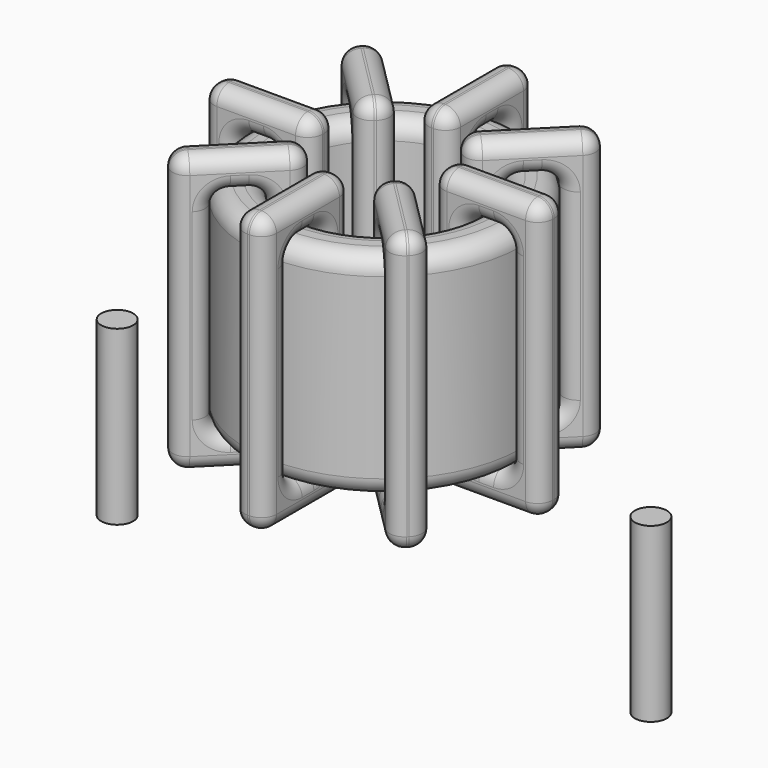
from build123d import *

# Parameters (mm, degrees)
SKETCH001_R       = 0.45
PAD001_DEPTH      = 0.45
PAD001_DEPTH_BACK = 4.4
SKETCH_R          = 3.8625
SKETCH_R_2        = 2.6035
PAD_DEPTH         = 6
FILLET_R          = 0.5
SKETCH003_W       = 3.059
SKETCH003_H       = 7.8
SKETCH003_W_2     = 1.259
SKETCH003_H_2     = 6
PAD002_DEPTH      = 0.45
FILLET001_R       = 0.423
SKETCH004_W       = 3.059
SKETCH004_H       = 7.8
SKETCH004_W_2     = 1.259
SKETCH004_H_2     = 6
PAD003_DEPTH      = 0.45
FILLET002_R       = 0.423
SKETCH005_W       = 3.059
SKETCH005_H       = 7.8
SKETCH005_W_2     = 1.259
SKETCH005_H_2     = 6
PAD004_DEPTH      = 0.45
FILLET003_R       = 0.423
SKETCH006_W       = 3.059
SKETCH006_H       = 7.8
SKETCH006_W_2     = 1.259
SKETCH006_H_2     = 6
PAD005_DEPTH      = 0.45
FILLET004_R       = 0.423


with BuildPart() as pad001:
    # Sketch001 → Pad001 (new body, two sides)
    with BuildSketch(Plane.XY.offset(0.95)) as pad001_sk:
        Circle(SKETCH001_R)
        with Locations((15, 0)):
            Circle(SKETCH001_R)
    extrude(amount=PAD001_DEPTH)
    extrude(pad001_sk.sketch, amount=-PAD001_DEPTH_BACK)


with BuildPart() as fillet_body:
    # Sketch → Pad (new body)
    with BuildSketch(Plane.XY.offset(1.4)):
        with Locations((7.5, 0)):
            Circle(SKETCH_R)
        with Locations((7.5, 0)):
            Circle(SKETCH_R_2, mode=Mode.SUBTRACT)
    extrude(amount=PAD_DEPTH)

    # Fillet
    fillet_edges = [fillet_body.edges().sort_by_distance(p)[0] for p in [
        (4.8965, 0, 7.4),
        (3.6375, 0, 7.4),
        (3.6375, 0, 1.4),
    ]]
    fillet(fillet_edges, radius=FILLET_R)


with BuildPart() as fillet001:
    # Sketch003 → Pad002 (new body, symmetric)
    with BuildSketch(Plane(origin=(7.5, 0, 0), x_dir=(1, 0, 0), z_dir=(0, -1, 0))):
        with Locations((-3.233, 4.4)):
            Rectangle(SKETCH003_W, SKETCH003_H)
        with Locations((-3.233, 4.4)):
            Rectangle(SKETCH003_W_2, SKETCH003_H_2, mode=Mode.SUBTRACT)
        with Locations((3.233, 4.4)):
            Rectangle(SKETCH003_W, SKETCH003_H)
        with Locations((3.233, 4.4)):
            Rectangle(SKETCH003_W_2, SKETCH003_H_2, mode=Mode.SUBTRACT)
    extrude(amount=PAD002_DEPTH, both=True)

    # Fillet001
    fillet001_edges = [fillet001.edges().sort_by_distance(p)[0] for p in [
        (4.8965, 0, 7.4),
        (4.8965, 0, 1.4),
        (4.8965, 0.45, 4.4),
        (4.8965, -0.45, 4.4),
        (2.7375, 0, 8.3),
        (5.7965, 0, 8.3),
        (4.267, 0.45, 8.3),
        (4.267, -0.45, 8.3),
        (5.7965, 0, 0.5),
        (5.7965, 0.45, 4.4),
        (5.7965, -0.45, 4.4),
        (10.1035, 0, 7.4),
        (11.3625, 0, 7.4),
        (10.733, 0.45, 7.4),
        (10.733, -0.45, 7.4),
        (11.3625, 0, 1.4),
        (11.3625, 0.45, 4.4),
        (11.3625, -0.45, 4.4),
        (9.2035, 0, 8.3),
        (12.2625, 0, 8.3),
        (10.733, 0.45, 8.3),
        (10.733, -0.45, 8.3),
        (12.2625, 0, 0.5),
        (12.2625, 0.45, 4.4),
        (12.2625, -0.45, 4.4),
        (3.6375, 0, 7.4),
        (4.267, 0.45, 7.4),
        (4.267, -0.45, 7.4),
        (10.1035, 0, 1.4),
        (10.1035, 0.45, 4.4),
        (10.1035, -0.45, 4.4),
        (10.733, 0.45, 1.4),
        (10.733, -0.45, 1.4),
        (9.2035, 0, 0.5),
        (10.733, 0.45, 0.5),
        (10.733, -0.45, 0.5),
        (9.2035, 0.45, 4.4),
        (9.2035, -0.45, 4.4),
        (2.7375, 0, 0.5),
        (4.267, 0.45, 0.5),
        (4.267, -0.45, 0.5),
        (2.7375, 0.45, 4.4),
        (2.7375, -0.45, 4.4),
        (3.6375, 0, 1.4),
        (3.6375, 0.45, 4.4),
        (3.6375, -0.45, 4.4),
        (4.267, 0.45, 1.4),
        (4.267, -0.45, 1.4),
    ]]
    fillet(fillet001_edges, radius=FILLET001_R)


with BuildPart() as fillet002:
    # Sketch004 → Pad003 (new body, symmetric)
    with BuildSketch(Plane(origin=(7.5, 0, 0), x_dir=(0.707107, 0.707107, 0), z_dir=(0.707107, -0.707107, 0))):
        with Locations((-3.233, 4.4)):
            Rectangle(SKETCH004_W, SKETCH004_H)
        with Locations((-3.233, 4.4)):
            Rectangle(SKETCH004_W_2, SKETCH004_H_2, mode=Mode.SUBTRACT)
        with Locations((3.233, 4.4)):
            Rectangle(SKETCH004_W, SKETCH004_H)
        with Locations((3.233, 4.4)):
            Rectangle(SKETCH004_W_2, SKETCH004_H_2, mode=Mode.SUBTRACT)
    extrude(amount=PAD003_DEPTH, both=True)

    # Fillet002
    fillet002_edges = [fillet002.edges().sort_by_distance(p)[0] for p in [
        (5.659047, -1.840953, 7.4),
        (5.659047, -1.840953, 1.4),
        (5.340849, -1.522754, 4.4),
        (5.977246, -2.159151, 4.4),
        (4.132404, -3.367596, 8.3),
        (6.295444, -1.204556, 8.3),
        (4.895726, -1.967878, 8.3),
        (5.532122, -2.604274, 8.3),
        (6.295444, -1.204556, 0.5),
        (5.977246, -0.886358, 4.4),
        (6.613642, -1.522754, 4.4),
        (9.340953, 1.840953, 7.4),
        (10.2312, 2.7312, 7.4),
        (9.467878, 2.604274, 7.4),
        (10.104274, 1.967878, 7.4),
        (10.2312, 2.7312, 1.4),
        (9.913002, 3.049398, 4.4),
        (10.549398, 2.413002, 4.4),
        (8.704556, 1.204556, 8.3),
        (10.867596, 3.367596, 8.3),
        (9.467878, 2.604274, 8.3),
        (10.104274, 1.967878, 8.3),
        (10.867596, 3.367596, 0.5),
        (10.549398, 3.685794, 4.4),
        (11.185794, 3.049398, 4.4),
        (4.7688, -2.7312, 7.4),
        (4.895726, -1.967878, 7.4),
        (5.532122, -2.604274, 7.4),
        (9.340953, 1.840953, 1.4),
        (9.022754, 2.159151, 4.4),
        (9.659151, 1.522754, 4.4),
        (9.467878, 2.604274, 1.4),
        (10.104274, 1.967878, 1.4),
        (8.704556, 1.204556, 0.5),
        (9.467878, 2.604274, 0.5),
        (10.104274, 1.967878, 0.5),
        (8.386358, 1.522754, 4.4),
        (9.022754, 0.886358, 4.4),
        (4.132404, -3.367596, 0.5),
        (4.895726, -1.967878, 0.5),
        (5.532122, -2.604274, 0.5),
        (3.814206, -3.049398, 4.4),
        (4.450602, -3.685794, 4.4),
        (4.7688, -2.7312, 1.4),
        (4.450602, -2.413002, 4.4),
        (5.086998, -3.049398, 4.4),
        (4.895726, -1.967878, 1.4),
        (5.532122, -2.604274, 1.4),
    ]]
    fillet(fillet002_edges, radius=FILLET002_R)


with BuildPart() as fillet003:
    # Sketch005 → Pad004 (new body, symmetric)
    with BuildSketch(Plane(origin=(7.5, 0, 0), x_dir=(0.707107, -0.707107, 0), z_dir=(-0.707107, -0.707107, 0))):
        with Locations((-3.233, 4.4)):
            Rectangle(SKETCH005_W, SKETCH005_H)
        with Locations((-3.233, 4.4)):
            Rectangle(SKETCH005_W_2, SKETCH005_H_2, mode=Mode.SUBTRACT)
        with Locations((3.233, 4.4)):
            Rectangle(SKETCH005_W, SKETCH005_H)
        with Locations((3.233, 4.4)):
            Rectangle(SKETCH005_W_2, SKETCH005_H_2, mode=Mode.SUBTRACT)
    extrude(amount=PAD004_DEPTH, both=True)

    # Fillet003
    fillet003_edges = [fillet003.edges().sort_by_distance(p)[0] for p in [
        (4.7688, 2.7312, 7.4),
        (5.659047, 1.840953, 1.4),
        (5.532122, 2.604274, 1.4),
        (4.895726, 1.967878, 1.4),
        (4.132404, 3.367596, 8.3),
        (6.295444, 1.204556, 8.3),
        (5.532122, 2.604274, 8.3),
        (4.895726, 1.967878, 8.3),
        (6.295444, 1.204556, 0.5),
        (6.613642, 1.522754, 4.4),
        (5.977246, 0.886358, 4.4),
        (9.340953, -1.840953, 1.4),
        (9.340953, -1.840953, 7.4),
        (9.659151, -1.522754, 4.4),
        (9.022754, -2.159151, 4.4),
        (10.2312, -2.7312, 1.4),
        (10.104274, -1.967878, 1.4),
        (9.467878, -2.604274, 1.4),
        (8.704556, -1.204556, 8.3),
        (10.867596, -3.367596, 8.3),
        (10.104274, -1.967878, 8.3),
        (9.467878, -2.604274, 8.3),
        (10.867596, -3.367596, 0.5),
        (11.185794, -3.049398, 4.4),
        (10.549398, -3.685794, 4.4),
        (4.7688, 2.7312, 1.4),
        (5.086998, 3.049398, 4.4),
        (4.450602, 2.413002, 4.4),
        (10.2312, -2.7312, 7.4),
        (10.104274, -1.967878, 7.4),
        (9.467878, -2.604274, 7.4),
        (10.549398, -2.413002, 4.4),
        (9.913002, -3.049398, 4.4),
        (8.704556, -1.204556, 0.5),
        (10.104274, -1.967878, 0.5),
        (9.467878, -2.604274, 0.5),
        (9.022754, -0.886358, 4.4),
        (8.386358, -1.522754, 4.4),
        (4.132404, 3.367596, 0.5),
        (5.532122, 2.604274, 0.5),
        (4.895726, 1.967878, 0.5),
        (4.450602, 3.685794, 4.4),
        (3.814206, 3.049398, 4.4),
        (5.659047, 1.840953, 7.4),
        (5.532122, 2.604274, 7.4),
        (4.895726, 1.967878, 7.4),
        (5.977246, 2.159151, 4.4),
        (5.340849, 1.522754, 4.4),
    ]]
    fillet(fillet003_edges, radius=FILLET003_R)


with BuildPart() as fillet004:
    # Sketch006 → Pad005 (new body, symmetric)
    with BuildSketch(Plane.YZ.offset(7.5)):
        with Locations((-3.233, 4.4)):
            Rectangle(SKETCH006_W, SKETCH006_H)
        with Locations((-3.233, 4.4)):
            Rectangle(SKETCH006_W_2, SKETCH006_H_2, mode=Mode.SUBTRACT)
        with Locations((3.233, 4.4)):
            Rectangle(SKETCH006_W, SKETCH006_H)
        with Locations((3.233, 4.4)):
            Rectangle(SKETCH006_W_2, SKETCH006_H_2, mode=Mode.SUBTRACT)
    extrude(amount=PAD005_DEPTH, both=True)

    # Fillet004
    fillet004_edges = [fillet004.edges().sort_by_distance(p)[0] for p in [
        (7.5, -2.6035, 7.4),
        (7.5, -2.6035, 1.4),
        (7.05, -2.6035, 4.4),
        (7.95, -2.6035, 4.4),
        (7.5, -4.7625, 8.3),
        (7.5, -1.7035, 8.3),
        (7.05, -3.233, 8.3),
        (7.95, -3.233, 8.3),
        (7.5, -1.7035, 0.5),
        (7.05, -1.7035, 4.4),
        (7.95, -1.7035, 4.4),
        (7.5, 2.6035, 7.4),
        (7.5, 3.8625, 7.4),
        (7.05, 3.233, 7.4),
        (7.95, 3.233, 7.4),
        (7.5, 3.8625, 1.4),
        (7.05, 3.8625, 4.4),
        (7.95, 3.8625, 4.4),
        (7.5, 1.7035, 8.3),
        (7.5, 4.7625, 8.3),
        (7.05, 3.233, 8.3),
        (7.95, 3.233, 8.3),
        (7.5, 4.7625, 0.5),
        (7.05, 4.7625, 4.4),
        (7.95, 4.7625, 4.4),
        (7.5, -3.8625, 7.4),
        (7.05, -3.233, 7.4),
        (7.95, -3.233, 7.4),
        (7.5, 2.6035, 1.4),
        (7.05, 2.6035, 4.4),
        (7.95, 2.6035, 4.4),
        (7.05, 3.233, 1.4),
        (7.95, 3.233, 1.4),
        (7.5, 1.7035, 0.5),
        (7.05, 3.233, 0.5),
        (7.95, 3.233, 0.5),
        (7.05, 1.7035, 4.4),
        (7.95, 1.7035, 4.4),
        (7.5, -4.7625, 0.5),
        (7.05, -3.233, 0.5),
        (7.95, -3.233, 0.5),
        (7.05, -4.7625, 4.4),
        (7.95, -4.7625, 4.4),
        (7.5, -3.8625, 1.4),
        (7.05, -3.8625, 4.4),
        (7.95, -3.8625, 4.4),
        (7.05, -3.233, 1.4),
        (7.95, -3.233, 1.4),
    ]]
    fillet(fillet004_edges, radius=FILLET004_R)


solid = Compound([pad001.part, fillet_body.part, fillet001.part, fillet002.part, fillet003.part, fillet004.part])
